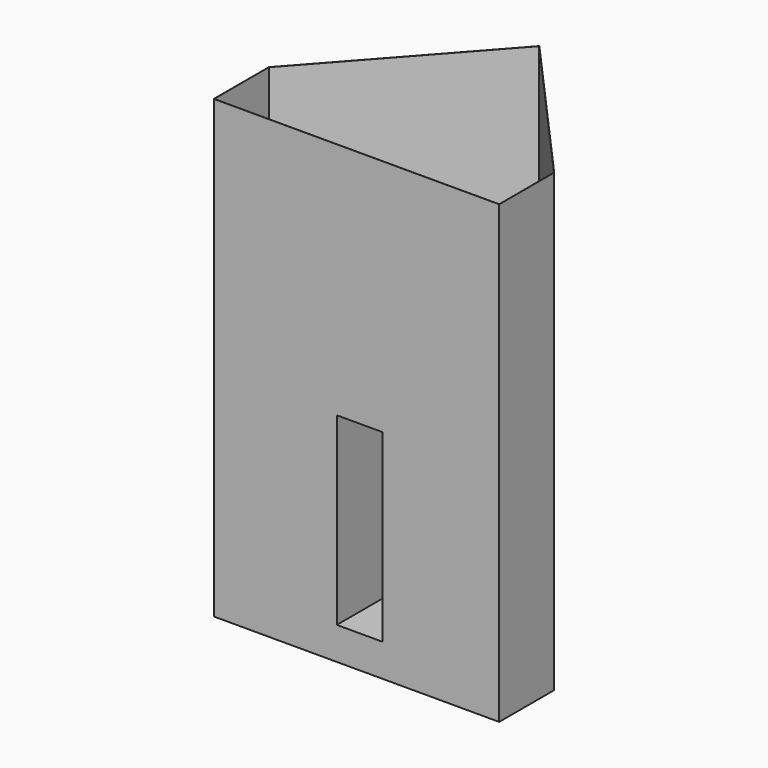
from build123d import *

# Parameters (mm, degrees)
F1_DEPTH = 8000
F2_T     = -2.5
F3_W     = 801.9051849842
F3_H     = 3240.1288747787
F4_DEPTH = 25
F6_DEPTH = 1000


with BuildPart() as f1:
    # F0 (on Top) → F1 (new body)
    with BuildSketch(Plane.XY):
        Polygon((2505.0001144409, 1201.907373407), (0, 4007.5075015809), (-2505.0001144409, 1201.907373407), (-2505.0001144409, -5.0001144409), (2505.0001144409, -5.0001144406), align=None)
        Polygon((2500, 3e-10), (-2500, 0), (-2500, 1200), (0, 4000.0000000002), (2500, 1200), align=None, mode=Mode.SUBTRACT)
        Polygon((-2500, 1200), (-2500, 0), (2500, 3e-10), (2500, 1200), (0, 4000.0000000002), align=None)
    extrude(amount=F1_DEPTH)

    # F2
    f2_openings = [f1.faces().sort_by_distance(p)[0] for p in [
        (0, 1425.528536, 8000),
    ]]
    offset(amount=F2_T, openings=f2_openings)

    # F3 (on face) → F4 (cut)
    with BuildSketch(Plane(origin=(0, -2.5001144408, 0), x_dir=(-1, 0, 0), z_dir=(0, 1, 0))):
        with Locations((-55.122807622, 2192.6925778389)):
            Rectangle(F3_W, F3_H)
    extrude(amount=-F4_DEPTH, mode=Mode.SUBTRACT)

    # F5 (on face) → F6 (join)
    with BuildSketch(Plane(origin=(0, -2.5001144408, 0), x_dir=(-1, 0, 0), z_dir=(0, 1, 0))):
        Polygon((445.8297848701, 3812.7570152283), (345.8297848701, 3812.7570152283), (345.8297848701, 572.6281404495), (-456.0754001141, 572.6281404495), (-456.0754001141, 3812.7570152283), (-556.0754001141, 3812.7570152283), (-556.0754001141, 572.6281404495), (-556.0754001141, 472.6281404495), (445.8297848701, 472.6281404495), (445.8297848701, 572.6281404495), align=None)
    extrude(amount=F6_DEPTH)


solid = f1.part
